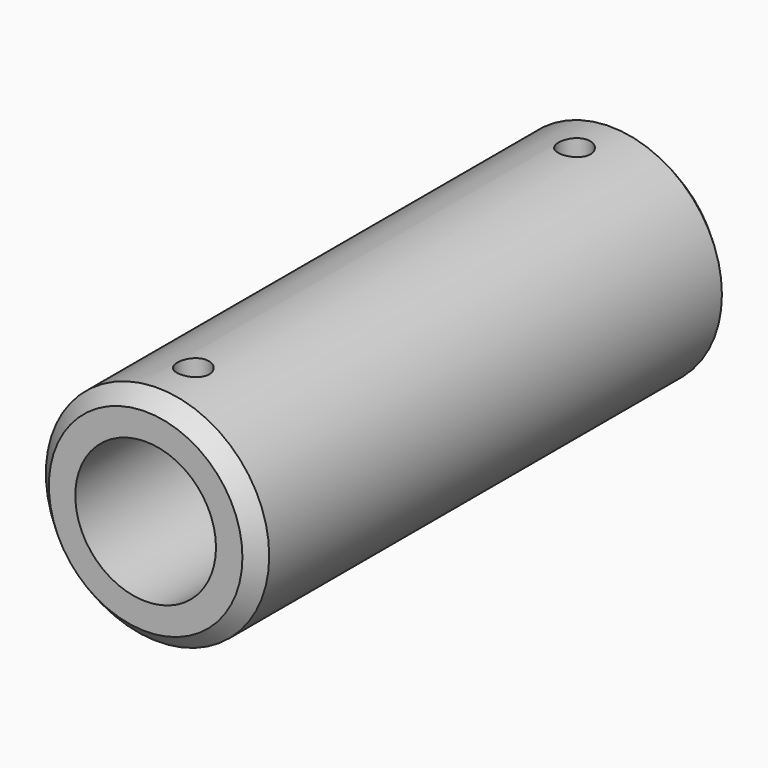
from build123d import *

# Parameters (mm, degrees)
F0_R          = 9.525
F1_DEPTH      = 25.4
F1_DEPTH_BACK = 25.4
F3_D          = 12
F3_DEPTH      = 25.401
F4_SIZE       = 1.27
F6_D          = 2.7178
F6_DEPTH      = 9.526


with BuildPart() as f1:
    # F0 (on Front) → F1 (new body, two sides)
    with BuildSketch(Plane.XZ) as f1_sk:
        Circle(F0_R)
    extrude(amount=F1_DEPTH)
    extrude(f1_sk.sketch, amount=-F1_DEPTH_BACK)

    # F3 (through all, one way)
    with BuildSketch(Plane(origin=(0, 0, 0), x_dir=(1, 0, 0), z_dir=(0, 1, 0))):
        with Locations((0, 0)):
            Circle(F3_D / 2)
    extrude(amount=-F3_DEPTH, mode=Mode.SUBTRACT)

    # F4
    f4_edges = [f1.edges().sort_by_distance(p)[0] for p in [
        (-9.525, -25.4, 0),
        (-9.525, 25.4, 0),
    ]]
    chamfer(f4_edges, length=F4_SIZE)

    # F6 (through all, one way)
    with BuildSketch(Plane(origin=(0, 0, 0), x_dir=(1, 0, 0), z_dir=(0, 0, -1))):
        with Locations((0, -20.32), (0, 20.32)):
            Circle(F6_D / 2)
    extrude(amount=-F6_DEPTH, mode=Mode.SUBTRACT)


solid = f1.part
